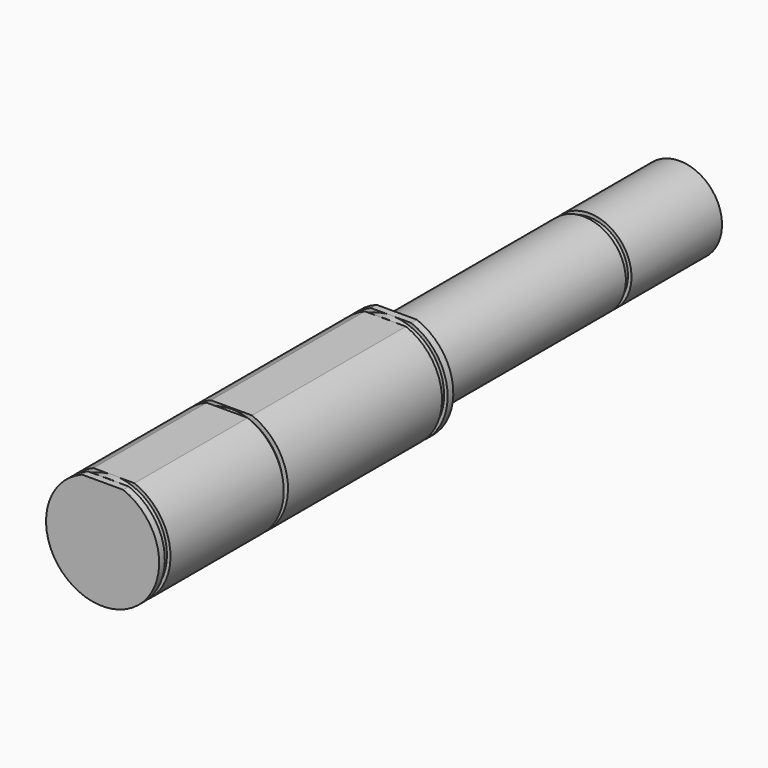
from build123d import *

# Parameters (mm, degrees)
F1_DEPTH  = 76.2
F2_R      = 11.90625
F3_DEPTH  = 1.5875
F5_DEPTH  = 1.5875
F6_R      = 11.90625
F7_DEPTH  = 1.5875
F9_DEPTH  = 1.5875
F10_R     = 9.525
F11_DEPTH = 52.3875
F12_R     = 8.73125
F13_DEPTH = 1.5875
F14_R     = 9.525
F15_DEPTH = 25.4
F16_W     = 1.190625
F16_H     = 1.190625


with BuildPart() as f1:
    # F0 (on Front) → F1 (new body)
    with BuildSketch(Plane.XZ):
        with BuildLine():
            Line((4.6062404769, 11.83522491), (-4.6062404769, 11.83522491))
            ThreePointArc((-4.6062404769, 11.83522491), (0, -12.7), (4.6062404769, 11.83522491))
        make_face()
    extrude(amount=F1_DEPTH)

    # F2 (on face) → F3 (join)
    with BuildSketch(Plane.XZ.offset(76.2)):
        Circle(F2_R)
    extrude(amount=F3_DEPTH)

    # F4 (on face) → F5 (join)
    with BuildSketch(Plane.XZ.offset(77.7875)):
        with BuildLine():
            Line((4.6117921338, 11.8330627191), (-4.6117921338, 11.8330627191))
            ThreePointArc((-4.6117921338, 11.8330627191), (0, -12.7), (4.6117921338, 11.8330627191))
        make_face()
    extrude(amount=F5_DEPTH)

    # F6 (on face) → F7 (join)
    with BuildSketch(Plane(origin=(0, 0, 0), x_dir=(-1, 0, 0), z_dir=(0, 1, 0))):
        Circle(F6_R)
    extrude(amount=F7_DEPTH)

    # F8 (on face) → F9 (join)
    with BuildSketch(Plane(origin=(0, 1.5875, 0), x_dir=(-1, 0, 0), z_dir=(0, 1, 0))):
        with BuildLine():
            Line((4.5204102672, 11.8682724529), (-4.5204102672, 11.8682724529))
            ThreePointArc((-4.5204102672, 11.8682724529), (0, -12.7), (4.5204102672, 11.8682724529))
        make_face()
    extrude(amount=F9_DEPTH)

    # F10 (on face) → F11 (join)
    with BuildSketch(Plane(origin=(0, 3.175, 0), x_dir=(-1, 0, 0), z_dir=(0, 1, 0))):
        Circle(F10_R)
    extrude(amount=F11_DEPTH)

    # F12 (on face) → F13 (join)
    with BuildSketch(Plane(origin=(0, 55.5625, 0), x_dir=(-1, 0, 0), z_dir=(0, 1, 0))):
        Circle(F12_R)
    extrude(amount=F13_DEPTH)

    # F14 (on face) → F15 (join)
    with BuildSketch(Plane(origin=(0, 57.15, 0), x_dir=(-1, 0, 0), z_dir=(0, 1, 0))):
        Circle(F14_R)
    extrude(amount=F15_DEPTH)

    # F16 (on Right) → F17 (revolve, cut)
    with BuildSketch(Plane.YZ):
        with Locations((-43.8153046727, -12.1969180837)):
            Rectangle(F16_W, F16_H)
    revolve(axis=Axis((0, 0, 0), (0, 1, 0)), mode=Mode.SUBTRACT)


solid = f1.part
